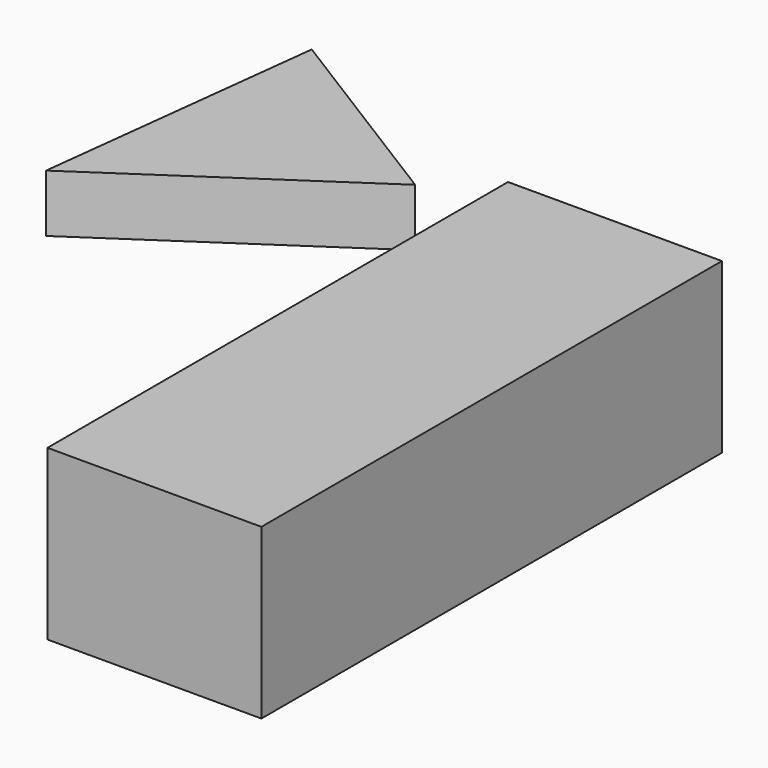
from build123d import *

# Parameters (mm, degrees)
F0_W     = 94.396036
F0_H     = 74.492071
F1_DEPTH = 254
F3_DEPTH = 25.4


with BuildPart() as f1:
    # F0 (on Front) → F1 (new body)
    with BuildSketch(Plane.XZ):
        with Locations((-0.886811, 2.561895)):
            Rectangle(F0_W, F0_H)
    extrude(amount=F1_DEPTH)


with BuildPart() as f3:
    # F2 (on Top) → F3 (new body)
    with BuildSketch(Plane.XY):
        Polygon((-89.046635, 0), (-179.976702, 56.62176), (-194.975466, -71.161866), align=None)
    extrude(amount=F3_DEPTH)


solid = Compound([f1.part, f3.part])
